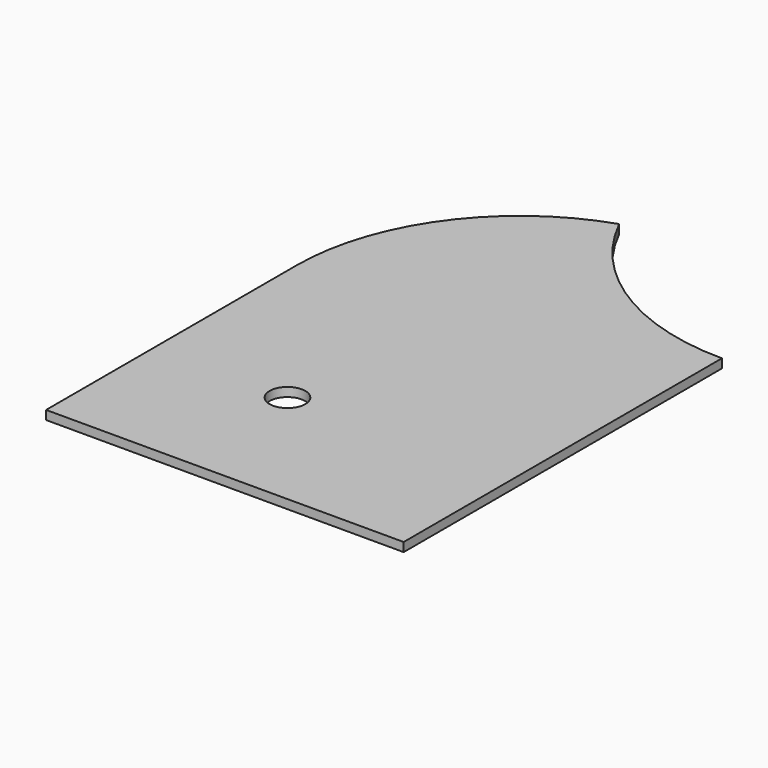
from build123d import *

# Parameters (mm, degrees)
CYLINDER016_R     = 51
CYLINDER016_DEPTH = 10
CYLINDER_R        = 4
CYLINDER_DEPTH    = 10
BOX_W             = 80
BOX_H             = 120
BOX_DEPTH         = 2
FILLET_R          = 50


with BuildPart() as cylinder017:
    # Cylinder016 → Cylinder016 (new body)
    with BuildSketch(Plane.XY):
        Circle(CYLINDER016_R)
    extrude(amount=CYLINDER016_DEPTH)


with BuildPart() as cylinder:
    # Cylinder → Cylinder (new body)
    with BuildSketch(Plane(origin=(50, -110, 0), x_dir=(1, 0, 0), z_dir=(0, 0, 1))):
        Circle(CYLINDER_R)
    extrude(amount=CYLINDER_DEPTH)


with BuildPart() as cut010:
    # Box → Box (new body)
    with BuildSketch(Plane(origin=(0, -140, 0), x_dir=(1, 0, 0), z_dir=(0, 0, 1))):
        with Locations((40, 60)):
            Rectangle(BOX_W, BOX_H)
    extrude(amount=BOX_DEPTH)

    # Fillet
    fillet_edges = [cut010.edges().sort_by_distance(p)[0] for p in [
        (80, -20, 1),
    ]]
    fillet(fillet_edges, radius=FILLET_R)

    # Cut: cut Cylinder
    add(cylinder.part, mode=Mode.SUBTRACT)

    # Cut010: cut Cylinder017
    add(cylinder017.part, mode=Mode.SUBTRACT)


with BuildPart() as part_mirroring:
    # Part__Mirroring: instance of Cut010
    add(cut010.part.mirror(Plane(origin=(0, 0, 0), x_dir=(0, -1, 0), z_dir=(1, 0, 0))))


solid = part_mirroring.part
